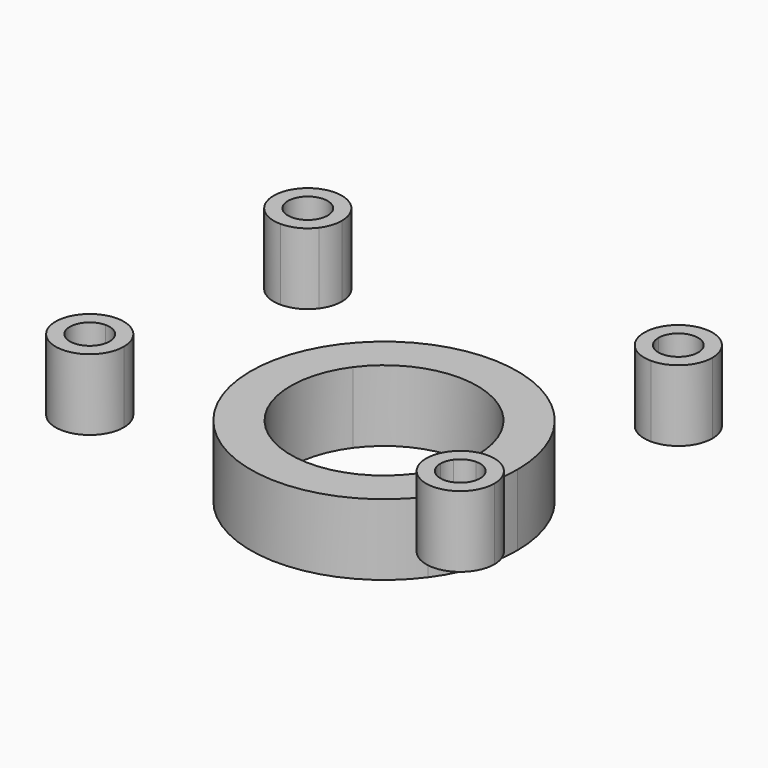
from build123d import *

# Parameters (mm, degrees)
F1_DEPTH = 12
F2_DEPTH = 12


with BuildPart() as f1:
    # F0 (on Top) → F1 (new body)
    with BuildSketch(Plane.XY):
        with BuildLine():
            Line((-31.2666631574, -19.65), (-31.2666631574, -17.25))
            ThreePointArc((-31.2666631574, -17.25), (-35.3325271492, -27.0658639918), (-25.5166631574, -23))
            Line((-25.5166631574, -23), (-27.9166631574, -23))
            ThreePointArc((-27.9166631574, -23), (-33.6354708744, -25.368807717), (-31.2666631574, -19.65))
        make_face()
        with BuildLine():
            ThreePointArc((-25.5166631574, -23), (-27.2007991656, -18.9341360082), (-31.2666631574, -17.25))
            Line((-31.2666631574, -17.25), (-31.2666631574, -19.65))
            ThreePointArc((-31.2666631574, -19.65), (-28.8978554405, -20.631192283), (-27.9166631574, -23))
            Line((-27.9166631574, -23), (-25.5166631574, -23))
        make_face()
    extrude(amount=F1_DEPTH)


with BuildPart() as f1b:
    # F0 (on Top) → F1, piece 2 (new body)
    with BuildSketch(Plane.XY):
        with BuildLine():
            ThreePointArc((37.0166631574, 23), (31.2666631574, 28.75), (25.5166631574, 23))
            Line((25.5166631574, 23), (27.9166631574, 23))
            ThreePointArc((27.9166631574, 23), (31.2666631574, 26.35), (34.6166631574, 23))
            ThreePointArc((34.6166631574, 23), (33.6354708744, 20.631192283), (31.2666631574, 19.65))
            Line((31.2666631574, 19.65), (31.2666631574, 17.25))
            ThreePointArc((31.2666631574, 17.25), (35.3325271492, 18.9341360082), (37.0166631574, 23))
        make_face()
        with BuildLine():
            Line((27.9166631574, 23), (25.5166631574, 23))
            ThreePointArc((25.5166631574, 23), (27.2007991656, 18.9341360082), (31.2666631574, 17.25))
            Line((31.2666631574, 17.25), (31.2666631574, 19.65))
            ThreePointArc((31.2666631574, 19.65), (28.8978554405, 20.631192283), (27.9166631574, 23))
        make_face()
    extrude(amount=F1_DEPTH)


with BuildPart() as f1c:
    # F0 (on Top) → F1, piece 3 (new body)
    with BuildSketch(Plane.XY):
        with BuildLine():
            Line((-27.9166631574, 23), (-25.5166631574, 23))
            ThreePointArc((-25.5166631574, 23), (-35.3325271492, 27.0658639918), (-31.2666631574, 17.25))
            Line((-31.2666631574, 17.25), (-31.2666631574, 19.65))
            ThreePointArc((-31.2666631574, 19.65), (-33.6354708744, 25.368807717), (-27.9166631574, 23))
        make_face()
        with BuildLine():
            Line((-31.2666631574, 19.65), (-31.2666631574, 17.25))
            ThreePointArc((-31.2666631574, 17.25), (-28.6713626614, 17.8690239393), (-26.6348632565, 19.5928120572))
            Line((-26.6348632565, 19.5928120572), (-28.5681362586, 21.0149426768))
            ThreePointArc((-28.5681362586, 21.0149426768), (-29.7546185206, 20.0106487298), (-31.2666631574, 19.65))
        make_face()
        with BuildLine():
            ThreePointArc((-26.6348632565, 19.5928120572), (-25.8033606109, 21.2070066133), (-25.5166631574, 23))
            Line((-25.5166631574, 23), (-27.9166631574, 23))
            ThreePointArc((-27.9166631574, 23), (-28.0836955868, 21.9553864617), (-28.5681362586, 21.0149426768))
            Line((-28.5681362586, 21.0149426768), (-26.6348632565, 19.5928120572))
        make_face()
    extrude(amount=F1_DEPTH)


with BuildPart() as f1d:
    # F0 (on Top) → F1, piece 4 (new body)
    with BuildSketch(Plane.XY):
        with BuildLine():
            ThreePointArc((37.0166631574, -23), (35.3325271492, -18.9341360082), (31.2666631574, -17.25))
            Line((31.2666631574, -17.25), (31.2666631574, -19.65))
            ThreePointArc((31.2666631574, -19.65), (33.6354708744, -20.631192283), (34.6166631574, -23))
            ThreePointArc((34.6166631574, -23), (31.2666631574, -26.35), (27.9166631574, -23))
            Line((27.9166631574, -23), (25.5166631574, -23))
            ThreePointArc((25.5166631574, -23), (31.2666631574, -28.75), (37.0166631574, -23))
        make_face()
        with BuildLine():
            Line((31.2666631574, -19.65), (31.2666631574, -17.25))
            ThreePointArc((31.2666631574, -17.25), (28.6713626614, -17.8690239393), (26.6348632565, -19.5928120572))
            Line((26.6348632565, -19.5928120572), (28.5681362586, -21.0149426768))
            ThreePointArc((28.5681362586, -21.0149426768), (29.7546185206, -20.0106487298), (31.2666631574, -19.65))
        make_face()
        with BuildLine():
            ThreePointArc((26.6348632565, -19.5928120572), (25.8033606109, -21.2070066133), (25.5166631574, -23))
            Line((25.5166631574, -23), (27.9166631574, -23))
            ThreePointArc((27.9166631574, -23), (28.0836955868, -21.9553864617), (28.5681362586, -21.0149426768))
            Line((28.5681362586, -21.0149426768), (26.6348632565, -19.5928120572))
        make_face()
    extrude(amount=F1_DEPTH)


with BuildPart() as f2:
    # F0 (on Top) → F2 (new body)
    with BuildSketch(Plane.XY):
        with BuildLine():
            ThreePointArc((22.5, 0), (7.0160610784, 21.3781403996), (-18.124434395, 13.3324745588))
            Line((-18.124434395, 13.3324745588), (-12.6871040765, 9.3327321912))
            ThreePointArc((-12.6871040765, 9.3327321912), (4.9112427549, 14.9646982797), (15.75, 0))
            ThreePointArc((15.75, 0), (14.9646982797, -4.9112427549), (12.6871040765, -9.3327321912))
            Line((12.6871040765, -9.3327321912), (18.124434395, -13.3324745588))
            ThreePointArc((18.124434395, -13.3324745588), (21.3781403996, -7.0160610784), (22.5, 0))
        make_face()
        with BuildLine():
            Line((-12.6871040765, 9.3327321912), (-18.124434395, 13.3324745588))
            ThreePointArc((-18.124434395, 13.3324745588), (-13.3324745588, -18.124434395), (18.124434395, -13.3324745588))
            Line((18.124434395, -13.3324745588), (12.6871040765, -9.3327321912))
            ThreePointArc((12.6871040765, -9.3327321912), (-9.3327321912, -12.6871040765), (-12.6871040765, 9.3327321912))
        make_face()
    extrude(amount=-F2_DEPTH)


solid = Compound([f1.part, f1b.part, f1c.part, f1d.part, f2.part])
